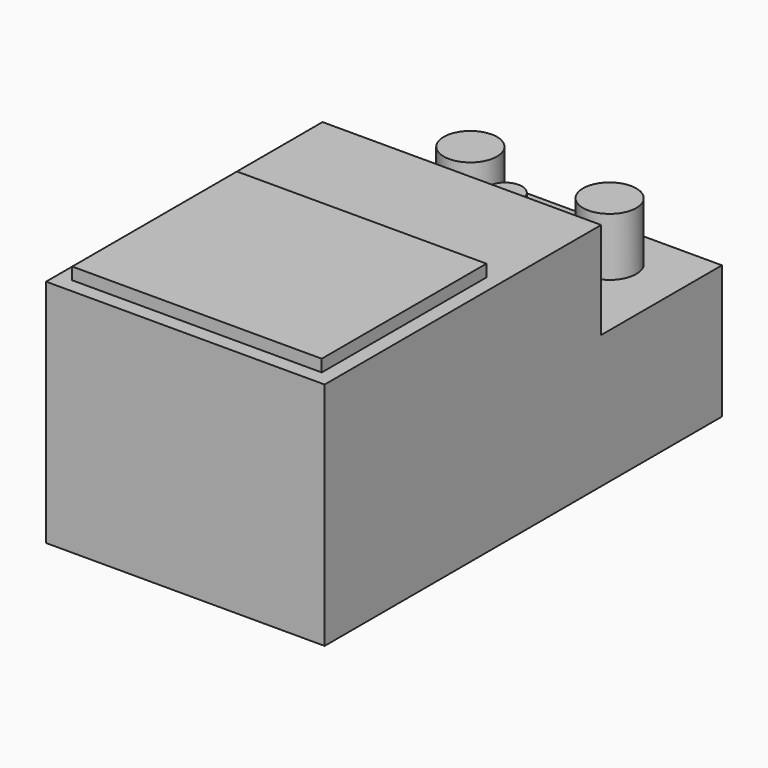
from build123d import *

# Parameters (mm, degrees)
F0_W     = 73.025
F0_H     = 90.588317
F1_DEPTH = 60.325
F0_H_2   = 39.586683
F2_DEPTH = 34.925
F3_W     = 65.405
F3_H     = 53.959612
F4_DEPTH = 3.175
F5_R     = 6.985
F5_R_2   = 4.445
F6_DEPTH = 15.24


with BuildPart() as f1:
    # F0 (on Top) → F1 (new body)
    with BuildSketch(Plane.XY):
        with Locations((0, -19.793341)):
            Rectangle(F0_W, F0_H)
    extrude(amount=F1_DEPTH)

    # F0 (on Top) → F2 (join)
    with BuildSketch(Plane.XY):
        with Locations((0, 45.294158)):
            Rectangle(F0_W, F0_H_2)
        with Locations((0, -19.793341)):
            Rectangle(F0_W, F0_H)
    extrude(amount=F2_DEPTH)

    # F3 (on face) → F4 (join)
    with BuildSketch(Plane.XY.offset(60.325)):
        with Locations((0, -34.297694)):
            Rectangle(F3_W, F3_H)
    extrude(amount=F4_DEPTH)

    # F5 (on face) → F6 (join)
    with BuildSketch(Plane.XY.offset(34.925)):
        with Locations((-18.25625, 51.1175)):
            Circle(F5_R)
        with Locations((0, 39.6875)):
            Circle(F5_R_2)
        with Locations((18.25625, 51.1175)):
            Circle(F5_R)
    extrude(amount=F6_DEPTH)


solid = f1.part
